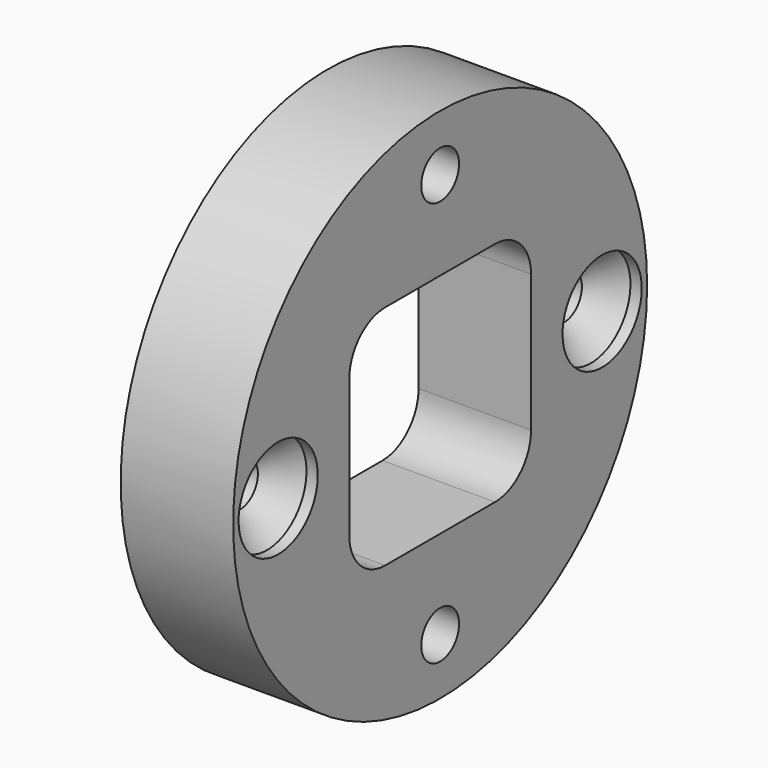
from build123d import *

# Parameters (mm, degrees)
F0_R     = 11.5
F0_R_2   = 1.05
F0_R_3   = 1
F1_DEPTH = 5


with BuildPart() as f1:
    # F0 (on Right) → F1 (new body)
    with BuildSketch(Plane.YZ):
        Circle(F0_R)
        with Locations((0, -9)):
            Circle(F0_R_2, mode=Mode.SUBTRACT)
        with Locations((-9, 0)):
            Circle(F0_R_3, mode=Mode.SUBTRACT)
        with BuildLine():
            ThreePointArc((-5.05, 3.05), (-4.464214, 4.464214), (-3.05, 5.05))
            Line((-3.05, 5.05), (3.05, 5.05))
            ThreePointArc((3.05, 5.05), (4.464214, 4.464214), (5.05, 3.05))
            Line((5.05, 3.05), (5.05, -3.05))
            ThreePointArc((5.05, -3.05), (4.464214, -4.464214), (3.05, -5.05))
            Line((3.05, -5.05), (-3.05, -5.05))
            ThreePointArc((-3.05, -5.05), (-4.464214, -4.464214), (-5.05, -3.05))
            Line((-5.05, -3.05), (-5.05, 3.05))
        make_face(mode=Mode.SUBTRACT)
        with Locations((9, 0)):
            Circle(F0_R_3, mode=Mode.SUBTRACT)
        with Locations((0, 9)):
            Circle(F0_R_2, mode=Mode.SUBTRACT)
    extrude(amount=F1_DEPTH)

    # F3 (on offset) → F5 (revolve, cut)
    with BuildSketch(Plane.XZ.offset(9)):
        Polygon((2.3, 0), (5, 0), (5, 2.2), (4.5, 2.2), align=None)
    revolve(axis=Axis((2.750115, -9, 0), (1, 0, 0)), mode=Mode.SUBTRACT)

    # F7 (on offset) → F8 (revolve, cut)
    with BuildSketch(Plane.XZ.offset(-9)):
        Polygon((4.5, 2.2), (2.3, 0), (5, 0), (5, 2.2), align=None)
    revolve(axis=Axis((3.65, 9, 0), (1, 0, 0)), mode=Mode.SUBTRACT)


solid = f1.part
